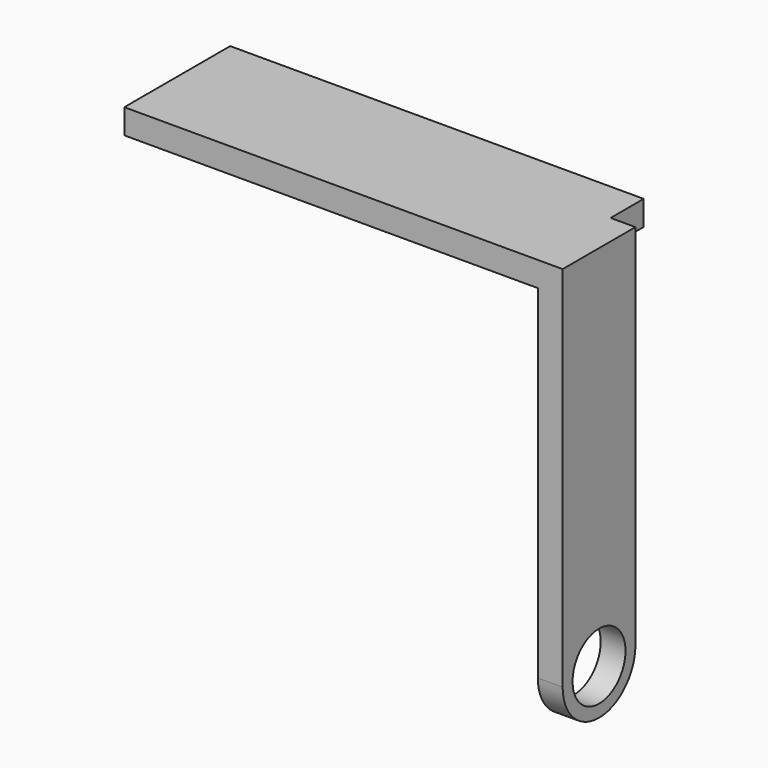
from build123d import *

# Parameters (mm, degrees)
SKETCH069_R     = 0.8
PAD044_DEPTH    = 0.6
SKETCH079_W     = 2.2
SKETCH079_H     = 0.6
PAD040_DEPTH    = 10
PAD040_FACE12_W = 10
PAD040_FACE12_H = 0.6
PAD045_DEPTH    = 1


with BuildPart() as part:
    # Sketch069 → Pad044 (new body)
    with BuildSketch(Plane.YZ):
        with BuildLine():
            Line((0, -8.9), (0, 0))
            Line((0, 0), (2.2, 0))
            Line((2.2, 0), (2.2, -8.9))
            ThreePointArc((0, -8.9), (1.1, -10), (2.2, -8.9))
        make_face()
        with Locations((1.1, -8.9)):
            Circle(SKETCH069_R, mode=Mode.SUBTRACT)
    extrude(amount=PAD044_DEPTH)

    # Sketch079 (on Face6 of Pad044) → Pad040 (join)
    with BuildSketch(Plane(origin=(0, 0, 0), x_dir=(0, 1, 0), z_dir=(-1, 0, 0))):
        with Locations((1.1, 0.3)):
            Rectangle(SKETCH079_W, SKETCH079_H)
    extrude(amount=PAD040_DEPTH)

    # Pad040 Face12 → Pad045 (add)
    with BuildSketch(Plane(origin=(-5, 2.2, -0.3), x_dir=(1, 0, 0), z_dir=(0, 1, 0))):
        Rectangle(PAD040_FACE12_W, PAD040_FACE12_H)
    extrude(amount=PAD045_DEPTH)


with BuildPart() as part_1:
    # Body011 placement: moved
    add(part.part.moved(Location((10, 12.3, 5.5))))


solid = part_1.part
